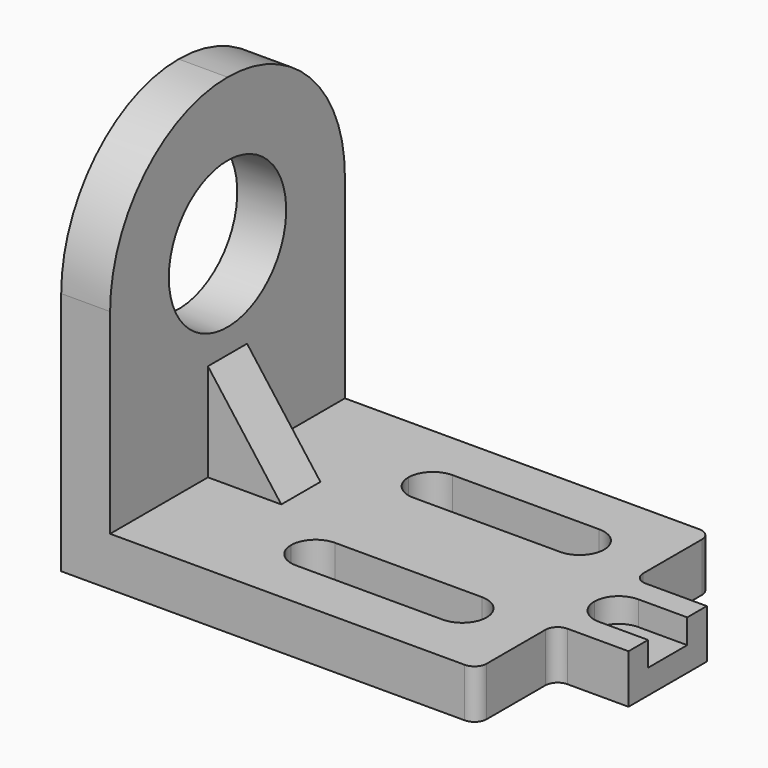
from build123d import *

# Parameters (mm, degrees)
F1_DEPTH = 25.4
F2_DEPTH = 12.7
F3_R     = 38.1
F4_DEPTH = 25.4
F6_START = -63.5
F6_DEPTH = 25.4


with BuildPart() as f1:
    # F0 (on Top) → F1 (new body)
    with BuildSketch(Plane.XY):
        with BuildLine():
            Line((88.9, -38.1), (0, -38.1))
            Line((0, -38.1), (0, -114.3))
            Line((0, -114.3), (88.9, -114.3))
            ThreePointArc((88.9, -114.3), (92.6197438789, -105.3197438789), (101.6, -101.6))
            Line((101.6, -101.6), (177.8, -101.6))
            ThreePointArc((177.8, -101.6), (186.7802561211, -105.3197438789), (190.5, -114.3))
            Line((190.5, -114.3), (215.9, -114.3))
            Line((215.9, -114.3), (215.9, -107.95))
            ThreePointArc((215.9, -107.95), (217.7598719395, -103.4598719395), (222.25, -101.6))
            Line((222.25, -101.6), (254, -101.6))
            Line((254, -101.6), (254, -88.9))
            Line((254, -88.9), (228.6, -88.9))
            ThreePointArc((228.6, -88.9), (219.6197438789, -85.1802561211), (215.9, -76.2))
            ThreePointArc((215.9, -76.2), (219.6197438789, -67.2197438789), (228.6, -63.5))
            Line((228.6, -63.5), (254, -63.5))
            Line((254, -63.5), (254, -50.8))
            Line((254, -50.8), (222.25, -50.8))
            ThreePointArc((222.25, -50.8), (217.7598719395, -48.9401280605), (215.9, -44.45))
            Line((215.9, -44.45), (215.9, -38.1))
            Line((215.9, -38.1), (190.5, -38.1))
            ThreePointArc((190.5, -38.1), (186.7802561211, -47.0802561211), (177.8, -50.8))
            Line((177.8, -50.8), (101.6, -50.8))
            ThreePointArc((101.6, -50.8), (92.6197438789, -47.0802561211), (88.9, -38.1))
        make_face()
        with BuildLine():
            Line((209.55, 0), (0, 0))
            Line((0, 0), (0, -38.1))
            Line((0, -38.1), (88.9, -38.1))
            ThreePointArc((88.9, -38.1), (92.6197438789, -29.1197438789), (101.6, -25.4))
            Line((101.6, -25.4), (177.8, -25.4))
            ThreePointArc((177.8, -25.4), (186.7802561211, -29.1197438789), (190.5, -38.1))
            Line((190.5, -38.1), (215.9, -38.1))
            Line((215.9, -38.1), (215.9, -6.35))
            ThreePointArc((215.9, -6.35), (214.0401280605, -1.8598719395), (209.55, 0))
        make_face()
        with BuildLine():
            Line((88.9, -114.3), (0, -114.3))
            Line((0, -114.3), (0, -152.4))
            Line((0, -152.4), (209.55, -152.4))
            ThreePointArc((209.55, -152.4), (214.0401280605, -150.5401280605), (215.9, -146.05))
            Line((215.9, -146.05), (215.9, -114.3))
            Line((215.9, -114.3), (190.5, -114.3))
            ThreePointArc((190.5, -114.3), (186.7802561211, -123.2802561211), (177.8, -127))
            Line((177.8, -127), (101.6, -127))
            ThreePointArc((101.6, -127), (92.6197438789, -123.2802561211), (88.9, -114.3))
        make_face()
    extrude(amount=F1_DEPTH)

    # F0 (on Top) → F2 (join)
    with BuildSketch(Plane.XY):
        with BuildLine():
            Line((254, -88.9), (254, -63.5))
            Line((254, -63.5), (228.6, -63.5))
            ThreePointArc((228.6, -63.5), (219.6197438789, -67.2197438789), (215.9, -76.2))
            ThreePointArc((215.9, -76.2), (219.6197438789, -85.1802561211), (228.6, -88.9))
            Line((228.6, -88.9), (254, -88.9))
        make_face()
    extrude(amount=F2_DEPTH)

    # F3 (on face) → F4 (join)
    with BuildSketch(Plane(origin=(0, 0, 0), x_dir=(0, -1, 0), z_dir=(-1, 0, 0))):
        with BuildLine():
            Line((0, 127), (0, 25.4))
            Line((0, 25.4), (152.4, 25.4))
            Line((152.4, 25.4), (152.4, 127))
            ThreePointArc((152.4, 127), (130.0815367264, 180.8815367264), (76.2, 203.2))
            ThreePointArc((76.2, 203.2), (22.3184632736, 180.8815367264), (0, 127))
        make_face()
        with Locations((76.2, 127)):
            Circle(F3_R, mode=Mode.SUBTRACT)
    extrude(amount=-F4_DEPTH)

    # F5 (on face) → F6 (join)
    with BuildSketch(Plane.XZ.offset(152.4).offset(F6_START)):
        Polygon((25.4, 76.2), (25.4, 25.4), (63.5, 25.4), align=None)
    extrude(amount=-F6_DEPTH)


solid = f1.part
